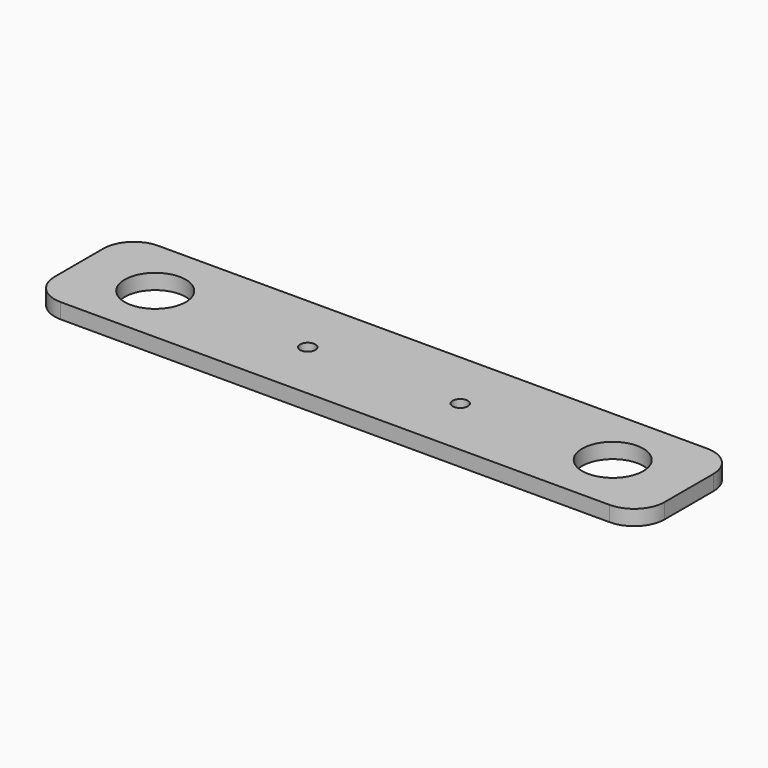
from build123d import *

# Parameters (mm, degrees)
F0_W     = 203.2
F0_H     = 152.4
F1_DEPTH = 3.175
F2_R     = 6.35
F3_DEPTH = 3.176
F4_W     = 203.2
F4_H     = 152.4
F4_W_2   = 127
F4_H_2   = 25.4
F5_DEPTH = 3.176
F6_R     = 6.35
F7_R     = 1.5875
F8_DEPTH = 3.176


with BuildPart() as f1:
    # F0 (on Top) → F1 (new body)
    with BuildSketch(Plane.XY):
        Rectangle(F0_W, F0_H)
    extrude(amount=F1_DEPTH)

    # F2 (on face) → F3 (cut, through all)
    with BuildSketch(Plane.XY.offset(3.175)):
        with Locations((-31.75, 0)):
            Circle(F2_R)
        with Locations((63.5, 0)):
            Circle(F2_R)
    extrude(amount=-F3_DEPTH, mode=Mode.SUBTRACT)

    # F4 (on face) → F5 (cut, through all)
    with BuildSketch(Plane.XY.offset(3.175)):
        Rectangle(F4_W, F4_H)
        with Locations((15.875, 0)):
            Rectangle(F4_W_2, F4_H_2, mode=Mode.SUBTRACT)
    extrude(amount=-F5_DEPTH, mode=Mode.SUBTRACT)

    # F6
    f6_edges = [f1.edges().sort_by_distance(p)[0] for p in [
        (-47.625, 12.7, 1.5875),
        (-47.625, -12.7, 1.5875),
        (79.375, -12.7, 1.5875),
        (79.375, 12.7, 1.5875),
    ]]
    fillet(f6_edges, radius=F6_R)

    # F7 (on face) → F8 (cut, through all)
    with BuildSketch(Plane.XY.offset(3.175)):
        Circle(F7_R)
        with Locations((31.75, 0)):
            Circle(F7_R)
    extrude(amount=-F8_DEPTH, mode=Mode.SUBTRACT)


solid = f1.part
